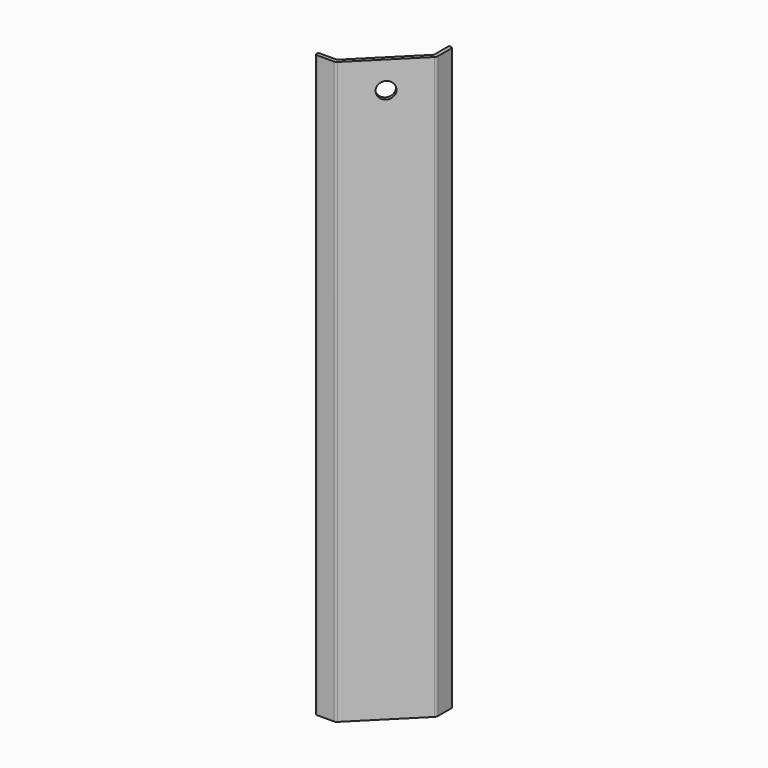
from build123d import *

# Parameters (mm, degrees)
F1_DEPTH = 28
F3_DEPTH = 244
F5_DEPTH = 28
F6_R     = 2
F7_R     = 1
F8_R     = 4.25
F9_DEPTH = 25


with BuildPart() as f1:
    # F0 (on Top) → F1 (new body)
    with BuildSketch(Plane.XY):
        Polygon((-19.75, -17.750001), (-19.75, -19.75), (-9.25, -19.75), (19.75, 9.25), (19.75, 19.75), (17.750001, 19.75), (17.750001, 10.078427), (-10.078427, -17.750001), align=None)
    extrude(amount=F1_DEPTH)

    # F2 (on face) → F3 (join)
    with BuildSketch(Plane.XY.offset(28)):
        Polygon((-19.75, -19.75), (-9.25, -19.75), (19.75, 9.25), (19.75, 19.75), (11.25, 19.75), (11.25, 24.25), (9.25, 26.25), (9.25, 23.421573), (9.25, 19.75), (9.25, 17.750001), (17.750001, 17.750001), (17.750001, 10.078427), (16.585787, 8.914213), (-8.914213, -16.585787), (-10.078427, -17.750001), (-17.750001, -17.750001), (-17.750001, -9.25), (-19.75, -9.25), (-23.421573, -9.25), (-26.25, -9.25), (-24.25, -11.25), (-19.75, -11.25), align=None)
    extrude(amount=F3_DEPTH)

    # F4 (on face) → F5 (join)
    with BuildSketch(Plane.XY.offset(272)):
        Polygon((19.75, 9.25), (19.75, 19.75), (17.750001, 19.75), (17.750001, 10.078427), (-10.078427, -17.750001), (-19.75, -17.750001), (-19.75, -19.75), (-9.25, -19.75), align=None)
    extrude(amount=F5_DEPTH)

    # F6
    f6_edges = [f1.edges().sort_by_distance(p)[0] for p in [
        (19.75, 9.25, 150),
        (-9.25, -19.75, 150),
    ]]
    fillet(f6_edges, radius=F6_R)

    # F7
    f7_edges = [f1.edges().sort_by_distance(p)[0] for p in [
        (-19.75, -19.75, 150),
        (19.75, 19.75, 150),
    ]]
    fillet(f7_edges, radius=F7_R)

    # F8 (on face) → F9 (cut)
    with BuildSketch(Plane(origin=(5.25, -5.25, 0), x_dir=(0.707107, 0.707107, 0), z_dir=(0.707107, -0.707107, 0))):
        with Locations((0, 286)):
            Circle(F8_R)
    extrude(amount=-F9_DEPTH, mode=Mode.SUBTRACT)


solid = f1.part
